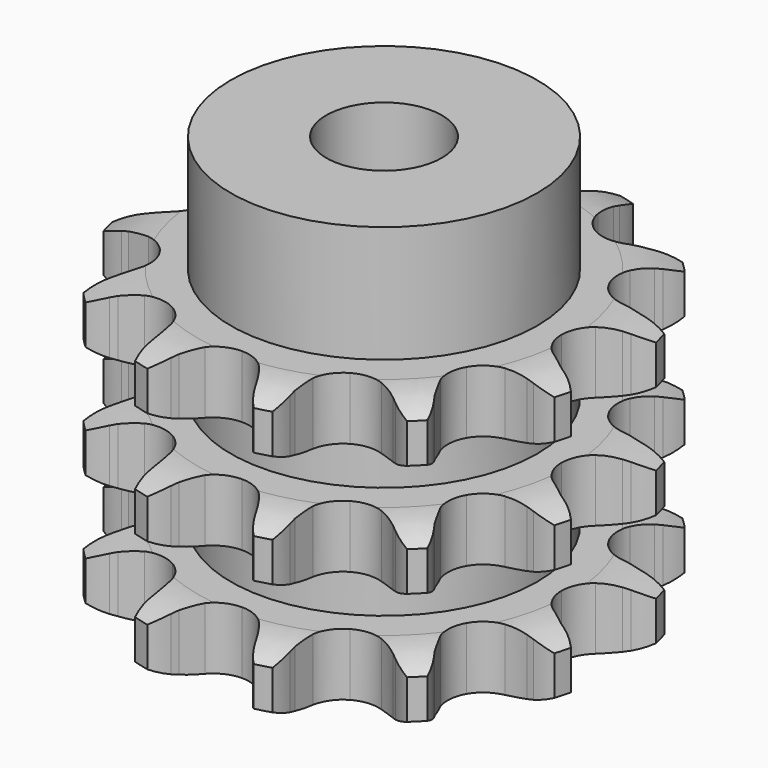
from build123d import *

# Parameters (mm, degrees)
PAD_DEPTH         = 49.8
SKETCH001_R       = 26.5
PAD001_DEPTH      = 70
SKETCH002_R       = 10
POCKET_DEPTH      = 0.001
POCKET_DEPTH_BACK = 70.001


with BuildPart() as part:
    # Sprocket → Pad (new body)
    with BuildSketch(Plane.XY):
        with BuildLine():
            ThreePointArc((-11.01919, 41.124178), (-8.830268, 39.328393), (-7.220259, 36.999424))
            Line((-7.220259, 36.999424), (-6.686077, 35.935781))
            ThreePointArc((-6.686077, 35.935781), (-5.769757, 34.348668), (-4.67538, 32.878664))
            ThreePointArc((-4.67538, 32.878664), (-2.579355, 31.270328), (0, 30.698499))
            ThreePointArc((0, 30.698499), (2.579355, 31.270328), (4.67538, 32.878664))
            ThreePointArc((4.67538, 32.878664), (5.769757, 34.348668), (6.686077, 35.935781))
            Line((6.686077, 35.935781), (7.220259, 36.999424))
            ThreePointArc((7.220259, 36.999424), (8.830268, 39.328393), (11.01919, 41.124178))
            ThreePointArc((11.01919, 41.124178), (12.01696, 38.474521), (12.246784, 35.65257))
            Line((12.246784, 35.65257), (12.177578, 34.464338))
            ThreePointArc((12.177578, 34.464338), (12.177578, 32.631698), (12.390334, 30.811449))
            ThreePointArc((12.390334, 30.811449), (13.401377, 28.370576), (15.349249, 26.58568))
            ThreePointArc((15.349249, 26.58568), (17.868952, 25.791221), (20.48833, 26.136069))
            Line((20.48833, 26.136069), (23.758204, 27.778261))
            ThreePointArc((23.758204, 27.778261), (24.249244, 28.114678), (24.752639, 28.432312))
            ThreePointArc((24.752639, 28.432312), (27.311433, 29.644253), (30.104988, 30.104988))
            ThreePointArc((30.104988, 30.104988), (29.644253, 27.311433), (28.432312, 24.752639))
            Line((28.432312, 24.752639), (27.778261, 23.758204))
            ThreePointArc((27.778261, 23.758204), (26.861941, 22.17109), (26.136069, 20.48833))
            ThreePointArc((26.136069, 20.48833), (25.791221, 17.868952), (26.58568, 15.349249))
            ThreePointArc((26.58568, 15.349249), (28.370576, 13.401377), (30.811449, 12.390334))
            Line((30.811449, 12.390334), (34.464338, 12.177578))
            ThreePointArc((34.464338, 12.177578), (35.057801, 12.223403), (35.65257, 12.246784))
            ThreePointArc((35.65257, 12.246784), (38.474521, 12.01696), (41.124178, 11.01919))
            ThreePointArc((41.124178, 11.01919), (39.328393, 8.830268), (36.999424, 7.220259))
            Line((36.999424, 7.220259), (35.935781, 6.686077))
            ThreePointArc((35.935781, 6.686077), (34.348668, 5.769757), (32.878664, 4.67538))
            ThreePointArc((32.878664, 4.67538), (31.270328, 2.579355), (30.698499, 0))
            ThreePointArc((30.698499, 0), (31.270328, -2.579355), (32.878664, -4.67538))
            Line((32.878664, -4.67538), (35.935781, -6.686077))
            ThreePointArc((35.935781, -6.686077), (36.472648, -6.943123), (36.999424, -7.220259))
            ThreePointArc((36.999424, -7.220259), (39.328393, -8.830268), (41.124178, -11.01919))
            ThreePointArc((41.124178, -11.01919), (38.474521, -12.01696), (35.65257, -12.246784))
            Line((35.65257, -12.246784), (34.464338, -12.177578))
            ThreePointArc((34.464338, -12.177578), (32.631698, -12.177578), (30.811449, -12.390334))
            ThreePointArc((30.811449, -12.390334), (28.370576, -13.401377), (26.58568, -15.349249))
            ThreePointArc((26.58568, -15.349249), (25.791221, -17.868952), (26.136069, -20.48833))
            Line((26.136069, -20.48833), (27.778261, -23.758204))
            ThreePointArc((27.778261, -23.758204), (28.114678, -24.249244), (28.432312, -24.752639))
            ThreePointArc((28.432312, -24.752639), (29.644253, -27.311433), (30.104988, -30.104988))
            ThreePointArc((30.104988, -30.104988), (27.311433, -29.644253), (24.752639, -28.432312))
            Line((24.752639, -28.432312), (23.758204, -27.778261))
            ThreePointArc((23.758204, -27.778261), (22.17109, -26.861941), (20.48833, -26.136069))
            ThreePointArc((20.48833, -26.136069), (17.868952, -25.791221), (15.349249, -26.58568))
            ThreePointArc((15.349249, -26.58568), (13.401377, -28.370576), (12.390334, -30.811449))
            Line((12.390334, -30.811449), (12.177578, -34.464338))
            ThreePointArc((12.177578, -34.464338), (12.223403, -35.057801), (12.246784, -35.65257))
            ThreePointArc((12.246784, -35.65257), (12.01696, -38.474521), (11.01919, -41.124178))
            ThreePointArc((11.01919, -41.124178), (8.830268, -39.328393), (7.220259, -36.999424))
            Line((7.220259, -36.999424), (6.686077, -35.935781))
            ThreePointArc((6.686077, -35.935781), (5.769757, -34.348668), (4.67538, -32.878664))
            ThreePointArc((4.67538, -32.878664), (2.579355, -31.270328), (0, -30.698499))
            ThreePointArc((0, -30.698499), (-2.579355, -31.270328), (-4.67538, -32.878664))
            Line((-4.67538, -32.878664), (-6.686077, -35.935781))
            ThreePointArc((-6.686077, -35.935781), (-6.943123, -36.472648), (-7.220259, -36.999424))
            ThreePointArc((-7.220259, -36.999424), (-8.830268, -39.328393), (-11.01919, -41.124178))
            ThreePointArc((-11.01919, -41.124178), (-12.01696, -38.474521), (-12.246784, -35.65257))
            Line((-12.246784, -35.65257), (-12.177578, -34.464338))
            ThreePointArc((-12.177578, -34.464338), (-12.177578, -32.631698), (-12.390334, -30.811449))
            ThreePointArc((-12.390334, -30.811449), (-13.401377, -28.370576), (-15.349249, -26.58568))
            ThreePointArc((-15.349249, -26.58568), (-17.868952, -25.791221), (-20.48833, -26.136069))
            Line((-20.48833, -26.136069), (-23.758204, -27.778261))
            ThreePointArc((-23.758204, -27.778261), (-24.249244, -28.114678), (-24.752639, -28.432312))
            ThreePointArc((-24.752639, -28.432312), (-27.311433, -29.644253), (-30.104988, -30.104988))
            ThreePointArc((-30.104988, -30.104988), (-29.644253, -27.311433), (-28.432312, -24.752639))
            Line((-28.432312, -24.752639), (-27.778261, -23.758204))
            ThreePointArc((-27.778261, -23.758204), (-26.861941, -22.17109), (-26.136069, -20.48833))
            ThreePointArc((-26.136069, -20.48833), (-25.791221, -17.868952), (-26.58568, -15.349249))
            ThreePointArc((-26.58568, -15.349249), (-28.370576, -13.401377), (-30.811449, -12.390334))
            Line((-30.811449, -12.390334), (-34.464338, -12.177578))
            ThreePointArc((-34.464338, -12.177578), (-35.057801, -12.223403), (-35.65257, -12.246784))
            ThreePointArc((-35.65257, -12.246784), (-38.474521, -12.01696), (-41.124178, -11.01919))
            ThreePointArc((-41.124178, -11.01919), (-39.328393, -8.830268), (-36.999424, -7.220259))
            Line((-36.999424, -7.220259), (-35.935781, -6.686077))
            ThreePointArc((-35.935781, -6.686077), (-34.348668, -5.769757), (-32.878664, -4.67538))
            ThreePointArc((-32.878664, -4.67538), (-31.270328, -2.579355), (-30.698499, 0))
            ThreePointArc((-30.698499, 0), (-31.270328, 2.579355), (-32.878664, 4.67538))
            Line((-32.878664, 4.67538), (-35.935781, 6.686077))
            ThreePointArc((-35.935781, 6.686077), (-36.472648, 6.943123), (-36.999424, 7.220259))
            ThreePointArc((-36.999424, 7.220259), (-39.328393, 8.830268), (-41.124178, 11.01919))
            ThreePointArc((-41.124178, 11.01919), (-38.474521, 12.01696), (-35.65257, 12.246784))
            Line((-35.65257, 12.246784), (-34.464338, 12.177578))
            ThreePointArc((-34.464338, 12.177578), (-32.631698, 12.177578), (-30.811449, 12.390334))
            ThreePointArc((-30.811449, 12.390334), (-28.370576, 13.401377), (-26.58568, 15.349249))
            ThreePointArc((-26.58568, 15.349249), (-25.791221, 17.868952), (-26.136069, 20.48833))
            Line((-26.136069, 20.48833), (-27.778261, 23.758204))
            ThreePointArc((-27.778261, 23.758204), (-28.114678, 24.249244), (-28.432312, 24.752639))
            ThreePointArc((-28.432312, 24.752639), (-29.644253, 27.311433), (-30.104988, 30.104988))
            ThreePointArc((-30.104988, 30.104988), (-27.311433, 29.644253), (-24.752639, 28.432312))
            Line((-24.752639, 28.432312), (-23.758204, 27.778261))
            ThreePointArc((-23.758204, 27.778261), (-22.17109, 26.861941), (-20.48833, 26.136069))
            ThreePointArc((-20.48833, 26.136069), (-17.868952, 25.791221), (-15.349249, 26.58568))
            ThreePointArc((-15.349249, 26.58568), (-13.401377, 28.370576), (-12.390334, 30.811449))
            Line((-12.390334, 30.811449), (-12.177578, 34.464338))
            ThreePointArc((-12.177578, 34.464338), (-12.223403, 35.057801), (-12.246784, 35.65257))
            ThreePointArc((-12.246784, 35.65257), (-12.01696, 38.474521), (-11.01919, 41.124178))
        make_face()
    extrude(amount=PAD_DEPTH)

    # Sketch → Groove (revolve, cut)
    with BuildSketch(Plane.XZ):
        with BuildLine():
            ThreePointArc((32.264719, 0), (36.623618, 0.506758), (40.75, 2))
            Line((40.75, 2), (40.75, 8.8))
            ThreePointArc((40.75, 8.8), (36.623618, 10.293242), (32.264719, 10.8))
            Line((26.5, 10.8), (32.264719, 10.8))
            Line((26.5, 10.8), (26.5, 19.5))
            Line((26.5, 19.5), (32.264719, 19.5))
            ThreePointArc((32.264719, 19.5), (36.623618, 20.006758), (40.75, 21.5))
            Line((40.75, 28.3), (40.75, 21.5))
            ThreePointArc((40.75, 28.3), (36.623618, 29.793242), (32.264719, 30.3))
            Line((26.5, 30.3), (32.264719, 30.3))
            Line((26.5, 39), (26.5, 30.3))
            Line((32.264719, 39), (26.5, 39))
            ThreePointArc((32.264719, 39), (36.623618, 39.506758), (40.75, 41))
            Line((40.75, 41), (40.75, 47.8))
            ThreePointArc((40.75, 47.8), (36.623618, 49.293242), (32.264719, 49.8))
            Line((32.264719, 49.8), (50.75, 49.8))
            Line((50.75, 49.8), (50.75, 0))
            Line((32.264719, 0), (50.75, 0))
        make_face()
    revolve(axis=Axis((0, 0, 0), (0, 0, 1)), mode=Mode.SUBTRACT)

    # Sketch001 → Pad001 (join)
    with BuildSketch(Plane.XY):
        Circle(SKETCH001_R)
    extrude(amount=PAD001_DEPTH)

    # Sketch002 → Pocket (cut, two sides)
    with BuildSketch(Plane.XY) as pocket_sk:
        Circle(SKETCH002_R)
    extrude(amount=-POCKET_DEPTH, mode=Mode.SUBTRACT)
    extrude(pocket_sk.sketch, amount=POCKET_DEPTH_BACK, mode=Mode.SUBTRACT)


solid = part.part
